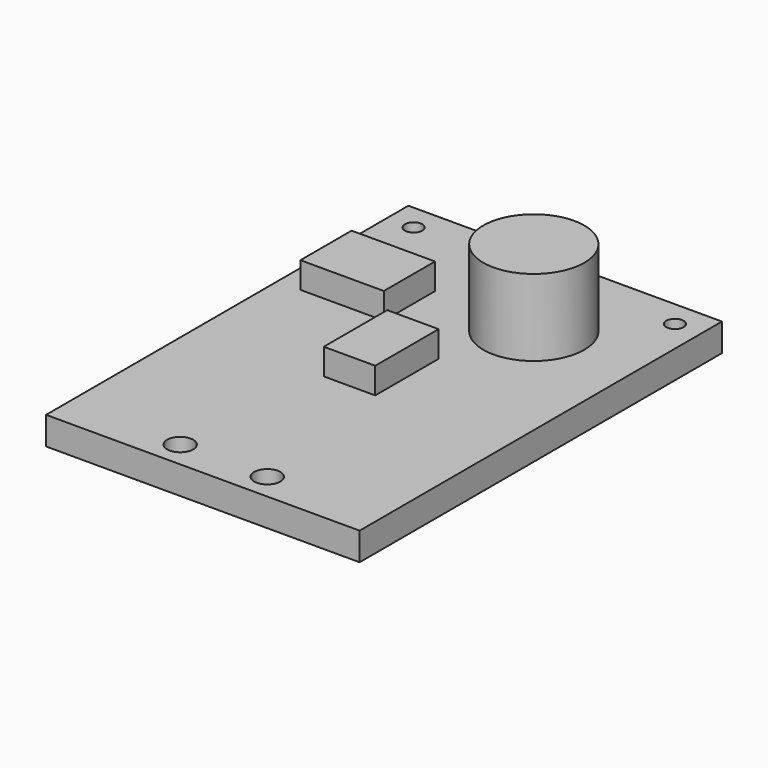
from build123d import *

# Parameters (mm, degrees)
F0_W     = 18
F0_H     = 26
F1_DEPTH = 1.6
F2_R     = 2.9
F3_DEPTH = 4.4
F4_W     = 4.789572
F4_H     = 3.672005
F4_W_2   = 2.95357
F4_H_2   = 4.550093
F5_DEPTH = 1.5
F6_R     = 0.75
F6_R_2   = 0.5
F7_DEPTH = 25


with BuildPart() as f1:
    # F0 (on Top) → F1 (new body)
    with BuildSketch(Plane.XY):
        Rectangle(F0_W, F0_H)
    extrude(amount=F1_DEPTH)

    # F2 (on face) → F3 (join)
    with BuildSketch(Plane.XY.offset(1.6)):
        with Locations((3, 7)):
            Circle(F2_R)
    extrude(amount=F3_DEPTH)

    # F4 (on face) → F5 (join)
    with BuildSketch(Plane.XY.offset(1.6)):
        with Locations((-5.280366, 5.431945)):
            Rectangle(F4_W, F4_H)
        with Locations((-0.131576, -0.03615)):
            Rectangle(F4_W_2, F4_H_2)
    extrude(amount=F5_DEPTH)

    # F6 (on face) → F7 (cut)
    with BuildSketch(Plane.XY.offset(1.6)):
        with Locations((-2.5, -11.5)):
            Circle(F6_R)
        with Locations((2.5, -11.5)):
            Circle(F6_R)
        with Locations((7.5, 11.5)):
            Circle(F6_R_2)
        with Locations((-7.5, 11.5)):
            Circle(F6_R_2)
    extrude(amount=-F7_DEPTH, mode=Mode.SUBTRACT)


solid = f1.part
